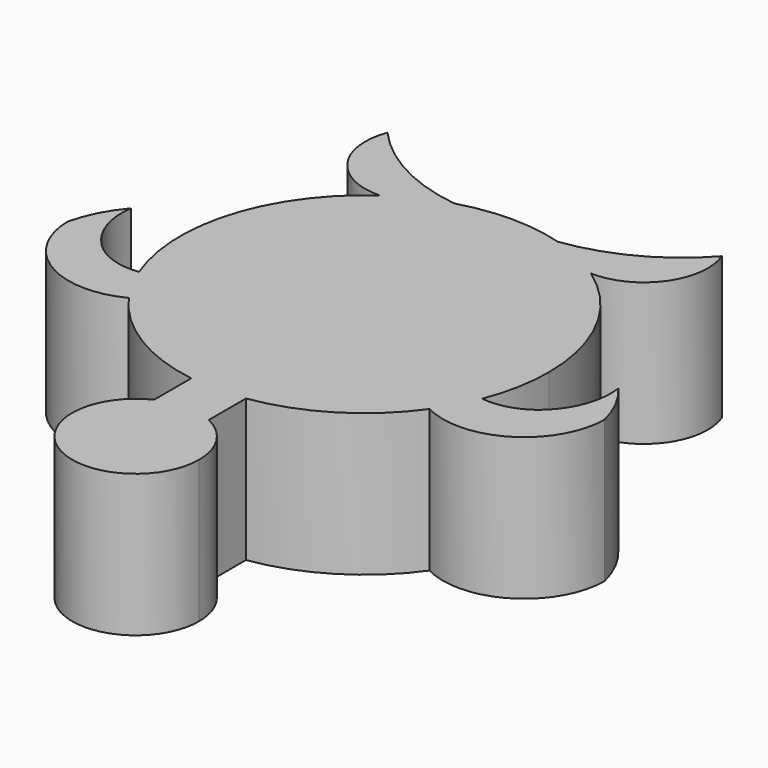
from build123d import *

# Parameters (mm, degrees)
F1_DEPTH = 2


with BuildPart() as f1:
    # F0 (on Top) → F1 (new body)
    with BuildSketch(Plane.XY):
        with BuildLine():
            ThreePointArc((-1.484384, 2.124211), (-1.120709, 2.336596), (-0.727436, 2.487269))
            ThreePointArc((-0.727436, 2.487269), (-1.616601, 2.768638), (-2.351094, 3.343359))
            ThreePointArc((-2.351094, 3.343359), (-2.243244, 2.502379), (-1.484384, 2.124211))
        make_face()
        with BuildLine():
            ThreePointArc((-2.113658, -1.499373), (-2.279864, -1.232027), (-2.412428, -0.9465))
            ThreePointArc((-2.412428, -0.9465), (-2.750971, -0.923594), (-3.055104, -0.773129))
            ThreePointArc((-3.055104, -0.773129), (-3.36643, -0.345932), (-3.426473, 0.17925))
            ThreePointArc((-3.426473, 0.17925), (-3.640466, -0.140011), (-3.772722, -0.500882))
            ThreePointArc((-3.772722, -0.500882), (-3.219918, -1.459931), (-2.113658, -1.499373))
        make_face()
        with BuildLine():
            ThreePointArc((3.055104, -0.773129), (2.750971, -0.923594), (2.412428, -0.9465))
            ThreePointArc((2.412428, -0.9465), (2.279864, -1.232027), (2.113658, -1.499373))
            ThreePointArc((2.113658, -1.499373), (3.219918, -1.459931), (3.772722, -0.500882))
            ThreePointArc((3.772722, -0.500882), (3.640466, -0.140011), (3.426473, 0.17925))
            ThreePointArc((3.426473, 0.17925), (3.36643, -0.345932), (3.055104, -0.773129))
        make_face()
        with BuildLine():
            ThreePointArc((0.892009, -4.021506), (0.754487, -3.54566), (0.384325, -3.216537))
            ThreePointArc((0.384325, -3.216537), (0, -3.129497), (-0.384325, -3.216537))
            ThreePointArc((-0.384325, -3.216537), (-0.475846, -4.775993), (0.892009, -4.021506))
        make_face()
        with BuildLine():
            ThreePointArc((2.591461, 0), (2.298085, 1.197695), (1.484384, 2.124211))
            ThreePointArc((1.484384, 2.124211), (1.120709, 2.336596), (0.727436, 2.487269))
            ThreePointArc((0.727436, 2.487269), (0, 2.591461), (-0.727436, 2.487269))
            ThreePointArc((-0.727436, 2.487269), (-1.120709, 2.336596), (-1.484384, 2.124211))
            ThreePointArc((-1.484384, 2.124211), (-2.480645, 0.749711), (-2.412428, -0.9465))
            ThreePointArc((-2.412428, -0.9465), (-2.276223, -1.230181), (-2.111146, -1.498092))
            ThreePointArc((-2.111146, -1.498092), (-2.112401, -1.498733), (-2.113658, -1.499373))
            ThreePointArc((-2.113658, -1.499373), (-1.357461, -2.20748), (-0.384325, -2.562804))
            ThreePointArc((-0.384325, -2.562804), (0, -2.591461), (0.384325, -2.562804))
            ThreePointArc((0.384325, -2.562804), (1.357461, -2.20748), (2.113658, -1.499373))
            ThreePointArc((2.113658, -1.499373), (2.279864, -1.232027), (2.412428, -0.9465))
            ThreePointArc((2.412428, -0.9465), (2.546309, -0.481642), (2.591461, 0))
        make_face()
        with BuildLine():
            ThreePointArc((0.727436, 2.487269), (1.120709, 2.336596), (1.484384, 2.124211))
            ThreePointArc((1.484384, 2.124211), (2.243244, 2.502379), (2.351094, 3.343359))
            ThreePointArc((2.351094, 3.343359), (1.616601, 2.768638), (0.727436, 2.487269))
        make_face()
        with BuildLine():
            Line((0.384325, -3.216537), (0.384325, -2.562804))
            ThreePointArc((0.384325, -2.562804), (0, -2.591461), (-0.384325, -2.562804))
            Line((-0.384325, -2.562804), (-0.384325, -3.216537))
            ThreePointArc((-0.384325, -3.216537), (0, -3.129497), (0.384325, -3.216537))
        make_face()
        with BuildLine():
            ThreePointArc((-2.111146, -1.498092), (-2.276223, -1.230181), (-2.412428, -0.9465))
            ThreePointArc((-2.412428, -0.9465), (-2.279864, -1.232027), (-2.113658, -1.499373))
            ThreePointArc((-2.113658, -1.499373), (-2.112401, -1.498733), (-2.111146, -1.498092))
        make_face()
    extrude(amount=F1_DEPTH)


solid = f1.part
